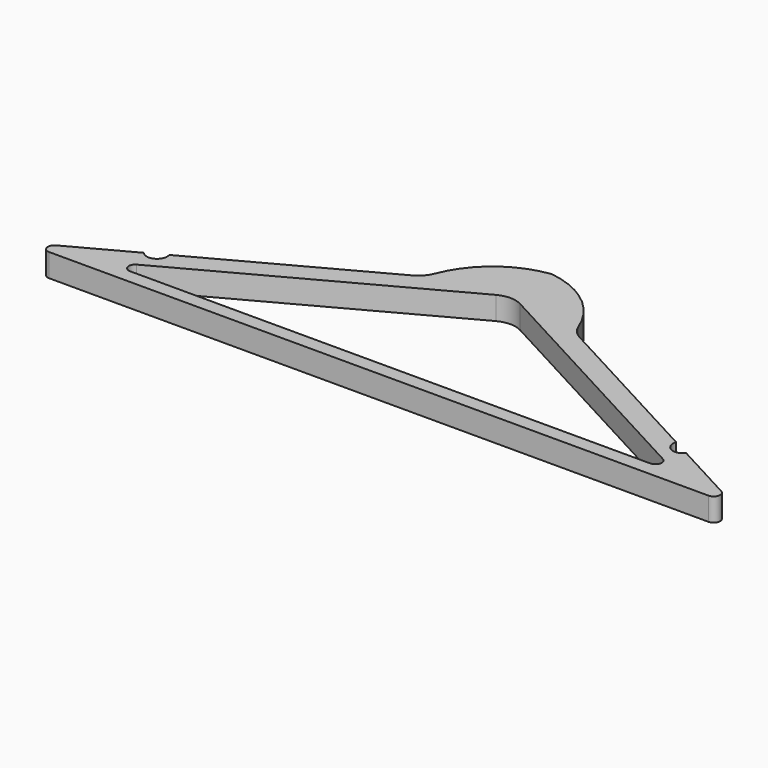
from build123d import *

# Parameters (mm, degrees)
F1_DEPTH = 18


with BuildPart() as f1:
    # F0 (on Top) → F1 (new body)
    with BuildSketch(Plane.XY):
        with BuildLine():
            Line((-239.117936, 119.242347), (-287.167788, 93.356404))
            ThreePointArc((-287.167788, 93.356404), (-289.644529, 87.731699), (-284.79637, 83.954544))
            Line((-284.79637, 83.954544), (229.176065, 83.954544))
            ThreePointArc((229.176065, 83.954544), (234.024224, 87.731699), (231.547483, 93.356404))
            Line((231.547483, 93.356404), (183.49763, 119.242347))
            ThreePointArc((183.49763, 119.242347), (173.514836, 117.173806), (169.750623, 126.648285))
            Line((169.750623, 126.648285), (37.302396, 198.002244))
            ThreePointArc((37.302396, 198.002244), (31.790948, 202.377666), (28.136158, 208.391225))
            ThreePointArc((28.136158, 208.391225), (6.193594, 238.052094), (-27.810153, 252.369513))
            ThreePointArc((-27.810153, 252.369513), (-61.813899, 238.052094), (-83.756463, 208.391225))
            ThreePointArc((-83.756463, 208.391225), (-87.411253, 202.377666), (-92.922702, 198.002244))
            Line((-92.922702, 198.002244), (-225.370928, 126.648285))
            ThreePointArc((-225.370928, 126.648285), (-229.135141, 117.173806), (-239.117936, 119.242347))
        make_face()
        with BuildLine():
            Line((174.866563, 94.943106), (-230.486868, 94.943106))
            ThreePointArc((-230.486868, 94.943106), (-235.335028, 98.720262), (-232.858286, 104.344967))
            Line((-232.858286, 104.344967), (-37.295826, 209.700516))
            ThreePointArc((-37.295826, 209.700516), (-27.810153, 212.093075), (-18.324479, 209.700516))
            Line((-18.324479, 209.700516), (177.237981, 104.344967))
            ThreePointArc((177.237981, 104.344967), (179.714722, 98.720262), (174.866563, 94.943106))
        make_face(mode=Mode.SUBTRACT)
    extrude(amount=F1_DEPTH)


solid = f1.part
